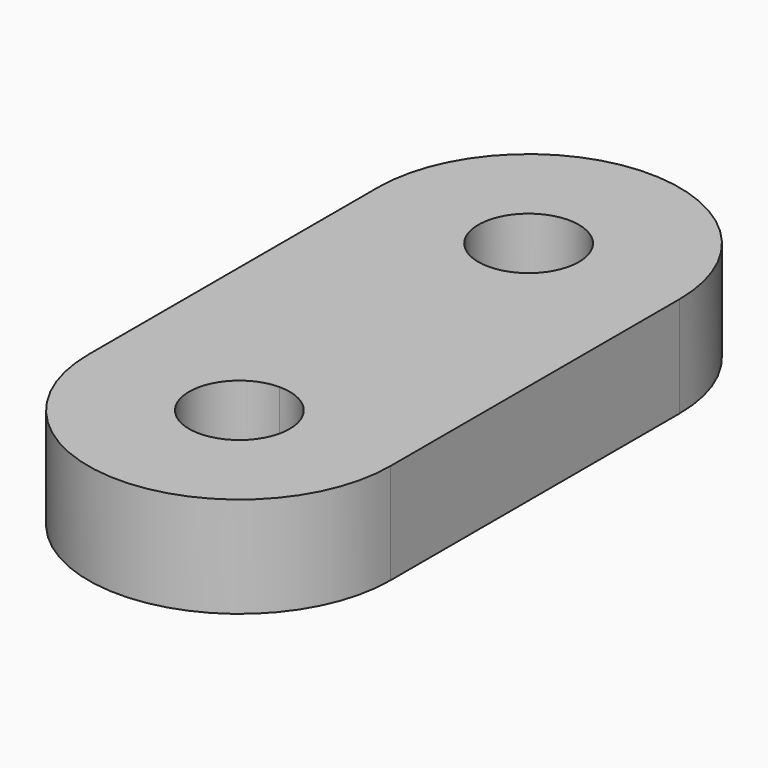
from build123d import *

# Parameters (mm, degrees)
F1_DEPTH = 6.35


with BuildPart() as f1:
    # F0 (on Top) → F1 (new body)
    with BuildSketch(Plane.XY):
        with BuildLine():
            ThreePointArc((9.525, 0), (6.7351920908, 6.7351920908), (0, 9.525))
            ThreePointArc((0, 9.525), (-6.7351920908, 6.7351920908), (-9.525, 0))
            ThreePointArc((-9.525, 0), (0, -9.525), (9.525, 0))
        make_face()
        with BuildLine():
            ThreePointArc((3.175, 0), (-2.2450640303, -2.2450640303), (0, 3.175))
            ThreePointArc((0, 3.175), (2.2450640303, 2.2450640303), (3.175, 0))
        make_face(mode=Mode.SUBTRACT)
        with BuildLine():
            ThreePointArc((-9.525, 0), (-6.7351920908, 6.7351920908), (0, 9.525))
            Line((0, 9.525), (0, 13.2831632736))
            ThreePointArc((0, 13.2831632736), (-6.7351920908, 16.0729711828), (-9.525, 22.8081632736))
            Line((-9.525, 22.8081632736), (-9.525, 0))
        make_face()
        with BuildLine():
            Line((0, 13.2831632736), (0, 9.525))
            ThreePointArc((0, 9.525), (6.7351920908, 6.7351920908), (9.525, 0))
            Line((9.525, 0), (9.525, 22.8081632736))
            ThreePointArc((9.525, 22.8081632736), (6.7351920908, 16.0729711828), (0, 13.2831632736))
        make_face()
        with BuildLine():
            ThreePointArc((-9.525, 22.8081632736), (-6.7351920908, 16.0729711828), (0, 13.2831632736))
            ThreePointArc((0, 13.2831632736), (6.7351920908, 16.0729711828), (9.525, 22.8081632736))
            ThreePointArc((9.525, 22.8081632736), (0, 32.3331632736), (-9.525, 22.8081632736))
        make_face()
        with BuildLine():
            ThreePointArc((3.175, 22.8081632736), (2.2450640303, 20.5630992433), (0, 19.6331632736))
            ThreePointArc((0, 19.6331632736), (-2.2450640303, 25.0532273039), (3.175, 22.8081632736))
        make_face(mode=Mode.SUBTRACT)
    extrude(amount=F1_DEPTH)


solid = f1.part
